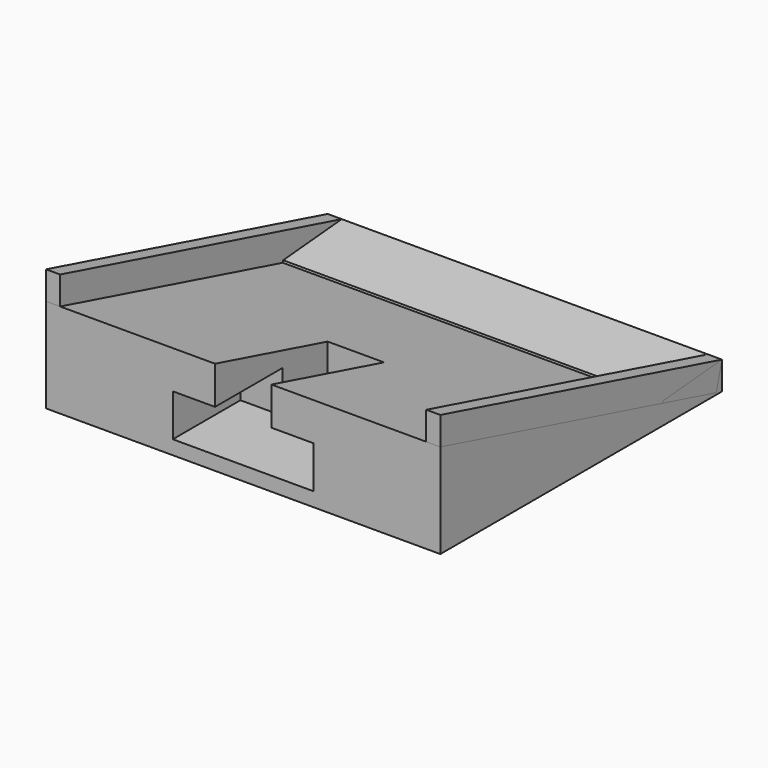
from build123d import *

# Parameters (mm, degrees)
F1_DEPTH  = 381
F3_START  = -12.7
F2_W      = 50.8
F2_H      = 127
F3_DEPTH  = 72.3748685969
F4_W      = 127
F4_H      = 38.1
F5_DEPTH  = 76.2
F7_DEPTH  = 381
F9_DEPTH  = 25.4
F11_DEPTH = 25.4
F13_DEPTH = 12.7
F15_DEPTH = 12.7
F17_DEPTH = 355.6


with BuildPart() as f1:
    # F0 (on Right) → F1 (new body)
    with BuildSketch(Plane.YZ):
        Polygon((0, 85.0738685969), (0, 0), (317.5, 0), align=None)
    extrude(amount=-F1_DEPTH)

    # F2 (on face) → F3 (cut)
    with BuildSketch(Plane(origin=(0, 0, 0), x_dir=(1, 0, 0), z_dir=(0, 0, -1)).offset(F3_START)):
        with Locations((-190.5, -63.5)):
            Rectangle(F2_W, F2_H)
    extrude(amount=-F3_DEPTH, mode=Mode.SUBTRACT)

    # F4 (on face) → F5 (cut)
    with BuildSketch(Plane.XZ):
        with Locations((-190.5, 31.75)):
            Rectangle(F4_W, F4_H)
    extrude(amount=-F5_DEPTH, mode=Mode.SUBTRACT)

    # F6 (on face) → F7 (join)
    with BuildSketch(Plane.YZ):
        Polygon((311.15, 1.7014773719), (317.5, 0), (317.5, 25.4), align=None)
    extrude(amount=-F7_DEPTH)


with BuildPart() as f9:
    # F8 (on face) → F9 (new body)
    with BuildSketch(Plane.YZ):
        Polygon((311.15, 1.7014773719), (317.5, 25.4), (0, 110.4738685969), (0, 85.0738685969), align=None)
    extrude(amount=-F9_DEPTH)


with BuildPart() as f11:
    # F10 (on face) → F11 (new body)
    with BuildSketch(Plane(origin=(-381, 0, 0), x_dir=(0, -1, 0), z_dir=(-1, 0, 0))):
        Polygon((0, 110.4738685969), (-317.5, 25.4), (-311.15, 1.7014773719), (0, 85.0738685969), align=None)
    extrude(amount=-F11_DEPTH)


with BuildPart() as f13_tool:
    # F12 (on face) → F13 (new body)
    with BuildSketch(Plane(origin=(-381, 0, 0), x_dir=(0, -1, 0), z_dir=(-1, 0, 0))):
        Polygon((-317.5, 25.4), (-317.5, 0), (0, 0), (0, 110.4738685969), align=None)
    extrude(amount=-F13_DEPTH)


with BuildPart() as f1_1:
    add(f1.part)

    # F13: cut by f13_tool
    add(f13_tool.part, mode=Mode.SUBTRACT)


with BuildPart() as f11_1:
    add(f11.part)

    # F13: cut by f13_tool
    add(f13_tool.part, mode=Mode.SUBTRACT)


with BuildPart() as f15_tool:
    # F14 (on face) → F15 (new body)
    with BuildSketch(Plane.YZ):
        Polygon((0, 0), (317.5, 0), (317.5, 25.4), (0, 110.4738685969), align=None)
    extrude(amount=-F15_DEPTH)


with BuildPart() as f1_2:
    add(f1_1.part)

    # F15: cut by f15_tool
    add(f15_tool.part, mode=Mode.SUBTRACT)


with BuildPart() as f9_1:
    add(f9.part)

    # F15: cut by f15_tool
    add(f15_tool.part, mode=Mode.SUBTRACT)


with BuildPart() as f17:
    # F16 (on face) → F17 (new body)
    with BuildSketch(Plane.YZ.offset(-12.7)):
        Polygon((311.15, 1.7014773719), (317.5, 25.4), (251.4242957392, 19.6191249427), (250.9457474025, 17.8331582364), align=None)
    extrude(amount=-F17_DEPTH)


solid = Compound([f11_1.part, f1_2.part, f9_1.part, f17.part])
